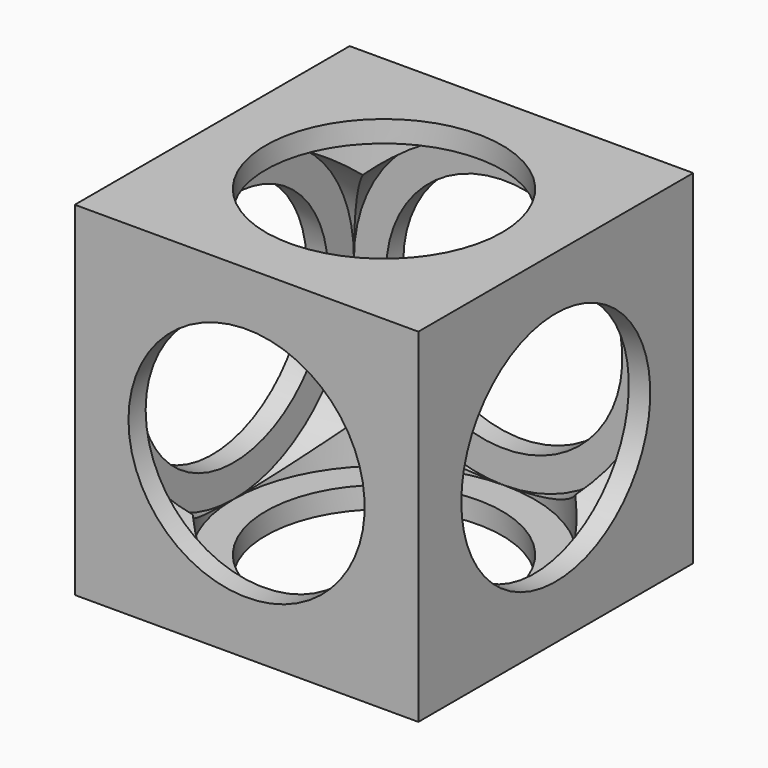
from build123d import *

# Parameters (mm, degrees)
F0_W      = 32
F0_H      = 32
F1_DEPTH  = 16
F2_R      = 11
F3_DEPTH  = 32.001
F4_R      = 11
F5_DEPTH  = 32.001
F6_R      = 11
F7_DEPTH  = 32.001
F8_R      = 14
F9_DEPTH  = 14
F10_R     = 14
F11_DEPTH = 14
F12_R     = 14
F13_DEPTH = 14


with BuildPart() as f1:
    # F0 (on Top) → F1 (new body, symmetric)
    with BuildSketch(Plane.XY):
        Rectangle(F0_W, F0_H)
    extrude(amount=F1_DEPTH, both=True)

    # F2 (on face) → F3 (cut, through all)
    with BuildSketch(Plane(origin=(-16, 0, 0), x_dir=(0, -1, 0), z_dir=(-1, 0, 0))):
        Circle(F2_R)
    extrude(amount=-F3_DEPTH, mode=Mode.SUBTRACT)

    # F4 (on face) → F5 (cut, through all)
    with BuildSketch(Plane.XY.offset(16)):
        Circle(F4_R)
    extrude(amount=-F5_DEPTH, mode=Mode.SUBTRACT)

    # F6 (on face) → F7 (cut, through all)
    with BuildSketch(Plane(origin=(0, 16, 0), x_dir=(-1, 0, 0), z_dir=(0, 1, 0))):
        Circle(F6_R)
    extrude(amount=-F7_DEPTH, mode=Mode.SUBTRACT)

    # F8 (on Top) → F9 (cut, symmetric)
    with BuildSketch(Plane.XY):
        Circle(F8_R)
    extrude(amount=F9_DEPTH, both=True, mode=Mode.SUBTRACT)

    # F10 (on Front) → F11 (cut, symmetric)
    with BuildSketch(Plane.XZ):
        Circle(F10_R)
    extrude(amount=F11_DEPTH, both=True, mode=Mode.SUBTRACT)

    # F12 (on Right) → F13 (cut, symmetric)
    with BuildSketch(Plane.YZ):
        Circle(F12_R)
    extrude(amount=F13_DEPTH, both=True, mode=Mode.SUBTRACT)


solid = f1.part
